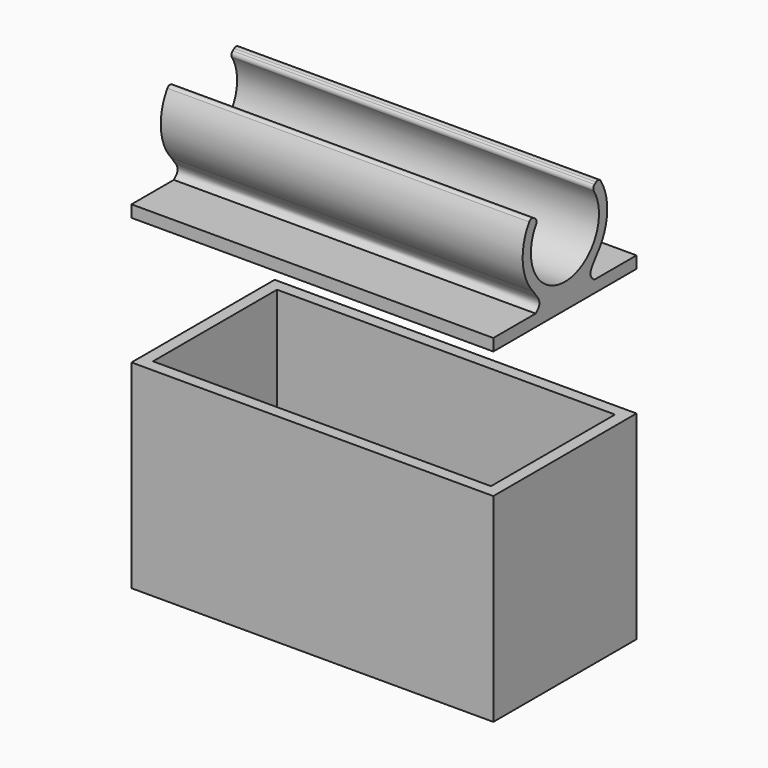
from build123d import *

# Parameters (mm, degrees)
F0_W     = 45.5
F0_H     = 22.5
F1_DEPTH = 1.5
F3_W     = 45.5
F3_H     = 22.5
F3_W_2   = 42.4999991808
F3_H_2   = 19.4999991808
F4_DEPTH = 23.5
F6_W     = 45.5
F6_H     = 22.5
F7_DEPTH = 1.5
F9_DEPTH = 45.5


with BuildPart() as f1:
    # F0 (on Top) → F1 (new body)
    with BuildSketch(Plane.XY):
        with Locations((7.6661653073, 4.5972098559)):
            Rectangle(F0_W, F0_H)
    extrude(amount=F1_DEPTH)

    # F3 (on offset) → F4 (join)
    with BuildSketch(Plane.XY.offset(1.5)):
        with Locations((7.6661653073, 4.5972098559)):
            Rectangle(F3_W, F3_H)
        with Locations((7.6661653073, 4.5972098559)):
            Rectangle(F3_W_2, F3_H_2, mode=Mode.SUBTRACT)
    extrude(amount=F4_DEPTH)


with BuildPart() as f7:
    # F6 (on offset) → F7 (new body)
    with BuildSketch(Plane.XY.offset(41)):
        with Locations((7.6661653073, 4.5972098559)):
            Rectangle(F6_W, F6_H)
    extrude(amount=F7_DEPTH)

    # F8 (on face) → F9 (join)
    with BuildSketch(Plane.YZ.offset(30.4161653073)):
        with BuildLine():
            add(Edge.make_bspline(
                [(-0.3777872455, 45.0912016029), (-0.1039396637, 44.7333429632), (0.3693333154, 44.1370098593), (0.6120724501, 43.5610906711), (0.5634119243, 43.1087799015), (0.3050337288, 42.7663792708), (0.1013277006, 42.5884866561), (0, 42.5)],
                knots=[0, 0, 0, 0, 0.2924817046, 0.4944795212, 0.6638319838, 0.8328508189, 1, 1, 1, 1], degree=3))
            Line((0, 42.5), (9.1944197118, 42.5))
            add(Edge.make_bspline(
                [(9.5722069573, 45.0912016029), (9.2983593755, 44.7333429632), (8.8250863964, 44.1370098593), (8.5823472618, 43.5610906711), (8.6310077876, 43.1087799015), (8.889385983, 42.7663792708), (9.0930920113, 42.5884866561), (9.1944197118, 42.5)],
                knots=[0, 0, 0, 0, 0.2924817046, 0.4944795212, 0.6638319838, 0.8328508189, 1, 1, 1, 1], degree=3))
            ThreePointArc((9.5722069573, 45.0912016029), (11.2234063009, 48.9693210595), (10.2104767237, 53.0608053213))
            ThreePointArc((10.2104767237, 53.0608053213), (9.8802490575, 53.2844370105), (9.4914952255, 53.1953757836))
            Line((9.4914952255, 53.1953757836), (9.2535319566, 53.019881494))
            ThreePointArc((9.2535319566, 53.019881494), (9.0589970851, 52.7103338144), (9.1271389426, 52.3511398983))
            ThreePointArc((9.1271389426, 52.3511398983), (4.5972098559, 44.1475), (0.0672807693, 52.3511398983))
            ThreePointArc((0.0672807693, 52.3511398983), (0.1354226267, 52.7103338144), (-0.0591122447, 53.019881494))
            Line((-0.0591122447, 53.019881494), (-0.2970755137, 53.1953757836))
            ThreePointArc((-0.2970755137, 53.1953757836), (-0.6858293456, 53.2844370105), (-1.0160570119, 53.0608053213))
            ThreePointArc((-1.0160570119, 53.0608053213), (-2.028986589, 48.9693210595), (-0.3777872455, 45.0912016029))
        make_face()
    extrude(amount=-F9_DEPTH)


solid = Compound([f1.part, f7.part])
